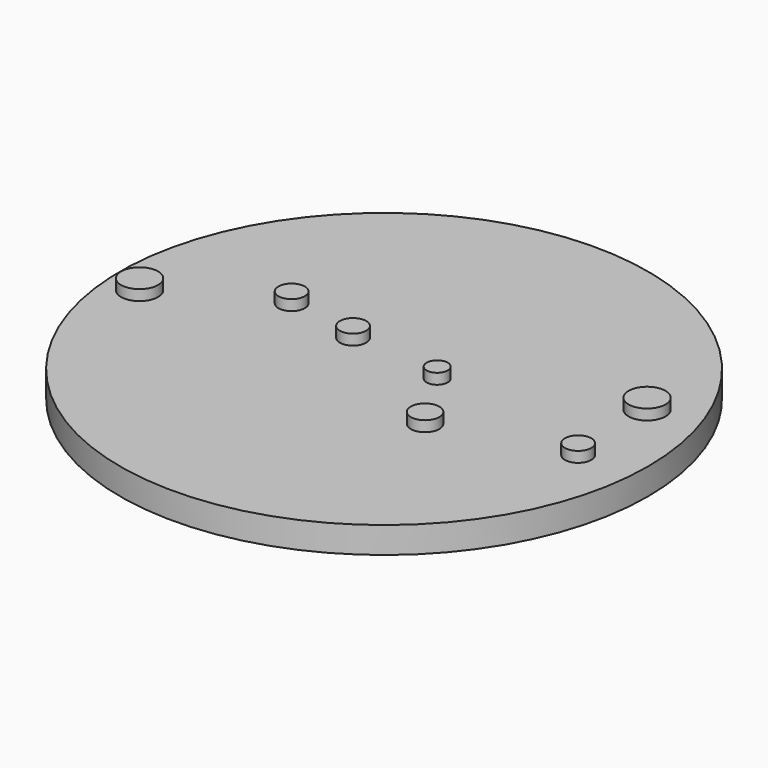
from build123d import *

# Parameters (mm, degrees)
F0_R     = 63.5
F0_R_2   = 4.445
F0_R_3   = 3.429
F0_R_4   = 3.175
F0_R_5   = 2.54
F1_DEPTH = 6.35
F2_DEPTH = 8.89


with BuildPart() as f1:
    # F0 (on Top) → F1 (new body)
    with BuildSketch(Plane.XY):
        Circle(F0_R)
        with Locations((-55.88685, -3.670559)):
            Circle(F0_R_2, mode=Mode.SUBTRACT)
        with Locations((19.95449, -12.614203)):
            Circle(F0_R_3, mode=Mode.SUBTRACT)
        with Locations((50.348941, -4.590068)):
            Circle(F0_R_4, mode=Mode.SUBTRACT)
        with Locations((-30.244848, 10.005177)):
            Circle(F0_R_4, mode=Mode.SUBTRACT)
        with Locations((-12.466392, 6.244349)):
            Circle(F0_R_4, mode=Mode.SUBTRACT)
        with Locations((10.228266, 3.190912)):
            Circle(F0_R_5, mode=Mode.SUBTRACT)
        with Locations((48.91162, 17.947705)):
            Circle(F0_R_2, mode=Mode.SUBTRACT)
    extrude(amount=F1_DEPTH)

    # F0 (on Top) → F2 (join)
    with BuildSketch(Plane.XY):
        with Locations((-55.88685, -3.670559)):
            Circle(F0_R_2)
        with Locations((-30.244848, 10.005177)):
            Circle(F0_R_4)
        with Locations((-12.466392, 6.244349)):
            Circle(F0_R_4)
        with Locations((10.228266, 3.190912)):
            Circle(F0_R_5)
        with Locations((48.91162, 17.947705)):
            Circle(F0_R_2)
        with Locations((50.348941, -4.590068)):
            Circle(F0_R_4)
        with Locations((19.95449, -12.614203)):
            Circle(F0_R_3)
    extrude(amount=F2_DEPTH)


solid = f1.part
